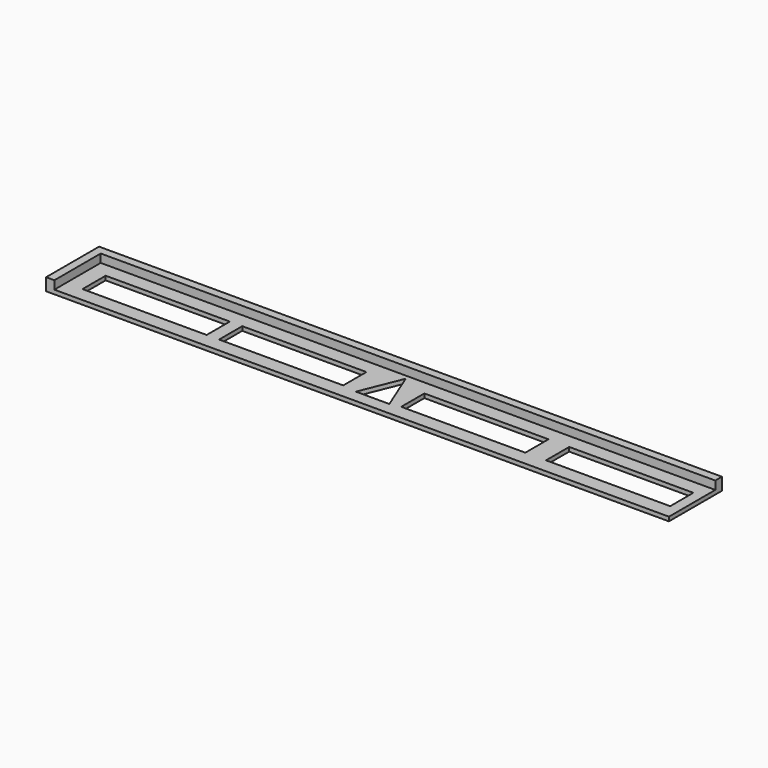
from build123d import *

# Parameters (mm, degrees)
BOX020_W      = 30
BOX020_H      = 7
BOX020_DEPTH  = 10
BOX027_W      = 30
BOX027_H      = 7
BOX027_DEPTH  = 10
BOX028_W      = 30
BOX028_H      = 7
BOX028_DEPTH  = 10
BOX026_W      = 30
BOX026_H      = 7
BOX026_DEPTH  = 10
EXTRUDE_DEPTH = 4
BOX019_W      = 148.5
BOX019_H      = 14
BOX019_DEPTH  = 2
BOX014_W      = 150.5
BOX014_H      = 16
BOX014_DEPTH  = 3


with BuildPart() as cube020:
    # Box020 → Box020 (new body)
    with BuildSketch(Plane(origin=(6, 3.5, -3), x_dir=(1, 0, 0), z_dir=(0, 0, 1))):
        with Locations((15, 3.5)):
            Rectangle(BOX020_W, BOX020_H)
    extrude(amount=BOX020_DEPTH)


with BuildPart() as cube027:
    # Box027 → Box027 (new body)
    with BuildSketch(Plane(origin=(83, 3.5, -3), x_dir=(1, 0, 0), z_dir=(0, 0, 1))):
        with Locations((15, 3.5)):
            Rectangle(BOX027_W, BOX027_H)
    extrude(amount=BOX027_DEPTH)


with BuildPart() as cube028:
    # Box028 → Box028 (new body)
    with BuildSketch(Plane(origin=(118, 3.5, -3), x_dir=(1, 0, 0), z_dir=(0, 0, 1))):
        with Locations((15, 3.5)):
            Rectangle(BOX028_W, BOX028_H)
    extrude(amount=BOX028_DEPTH)


with BuildPart() as cube026:
    # Box026 → Box026 (new body)
    with BuildSketch(Plane(origin=(39, 3.5, -3), x_dir=(1, 0, 0), z_dir=(0, 0, 1))):
        with Locations((15, 3.5)):
            Rectangle(BOX026_W, BOX026_H)
    extrude(amount=BOX026_DEPTH)


with BuildPart() as extrude_body:
    # Sketch (on Face7 of Cut009) → Extrude (new body)
    with BuildSketch(Plane.XY.offset(1)):
        Polygon((76.5, 12), (72.459738, 2), (80.540262, 2), align=None)
    extrude(amount=EXTRUDE_DEPTH)


with BuildPart() as extrude_body_1:
    # Extrude placement: moved
    add(extrude_body.part.moved(Location((0, 1, -2.3))))


with BuildPart() as cube019:
    # Box019 → Box019 (new body)
    with BuildSketch(Plane(origin=(2, 0, 1), x_dir=(1, 0, 0), z_dir=(0, 0, 1))):
        with Locations((74.25, 7)):
            Rectangle(BOX019_W, BOX019_H)
    extrude(amount=BOX019_DEPTH)


with BuildPart() as obj1:
    # Box014 → Box014 (new body)
    with BuildSketch(Plane.XY):
        with Locations((75.25, 8)):
            Rectangle(BOX014_W, BOX014_H)
    extrude(amount=BOX014_DEPTH)

    # Cut009: cut Cube019
    add(cube019.part, mode=Mode.SUBTRACT)

    # Cut010: cut Extrude body
    add(extrude_body_1.part, mode=Mode.SUBTRACT)

    # Cut011: cut Cube026
    add(cube026.part, mode=Mode.SUBTRACT)

    # Cut012: cut Cube028
    add(cube028.part, mode=Mode.SUBTRACT)

    # Cut013: cut Cube027
    add(cube027.part, mode=Mode.SUBTRACT)

    # Cut014: cut Cube020
    add(cube020.part, mode=Mode.SUBTRACT)


solid = obj1.part
